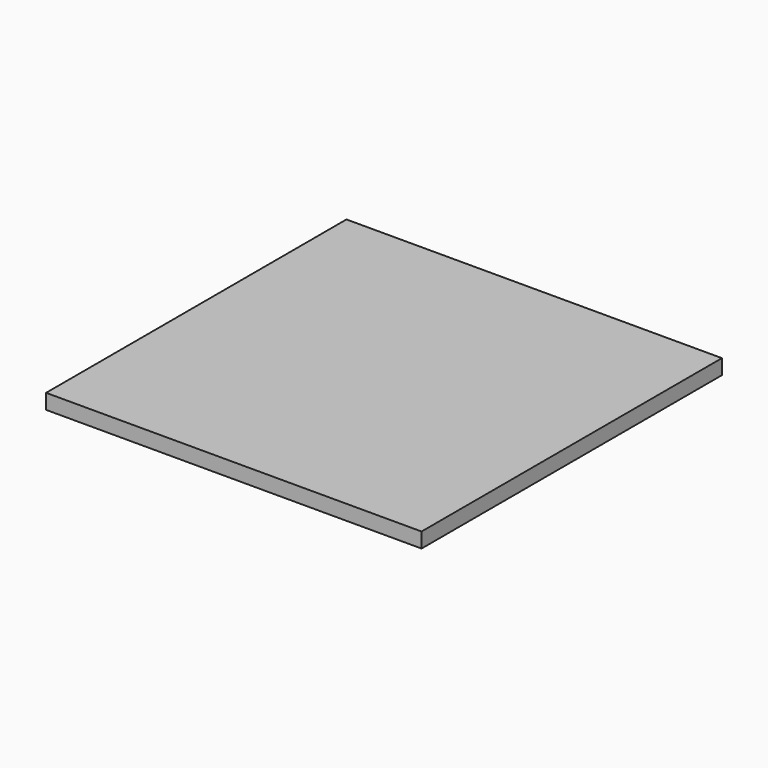
from build123d import *

# Parameters (mm, degrees)
BOX_W     = 75
BOX_H     = 75
BOX_DEPTH = 3


with BuildPart() as part:
    # Box → Box (join)
    with BuildSketch(Plane.XY):
        with Locations((37.5, 37.5)):
            Rectangle(BOX_W, BOX_H)
    extrude(amount=BOX_DEPTH)


solid = part.part
